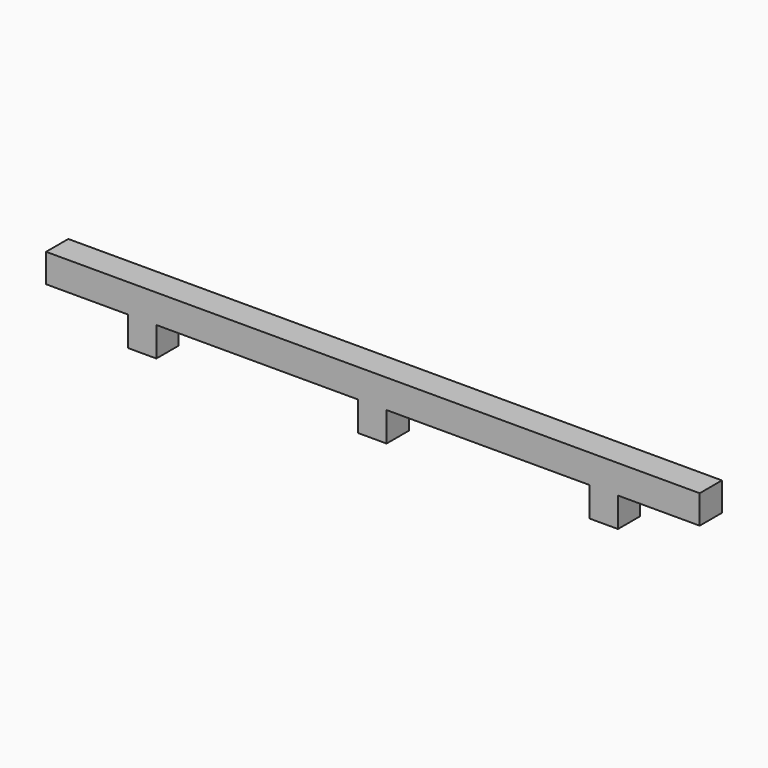
from build123d import *

# Parameters (mm, degrees)
F1_DEPTH = 85


with BuildPart() as f1:
    # F0 (on Front) → F1 (new body, symmetric)
    with BuildSketch(Plane.XZ):
        Polygon((-1997.5192546844, 355.6), (-1997.5192546844, 180.6), (-1497.5192546844, 180.6), (-1497.5192546844, 0), (-1322.5192546844, 0), (-1322.5192546844, 180.6), (-88.6398814619, 180.6), (-88.6398814619, 0), (86.3601185381, 0), (86.3601185381, 180.6), (1327.4807453156, 180.6), (1327.4807453156, 0), (1502.4807453156, 0), (1502.4807453156, 180.6), (2002.4807453156, 180.6), (2002.4807453156, 355.6), align=None)
    extrude(amount=F1_DEPTH, both=True)


solid = f1.part
